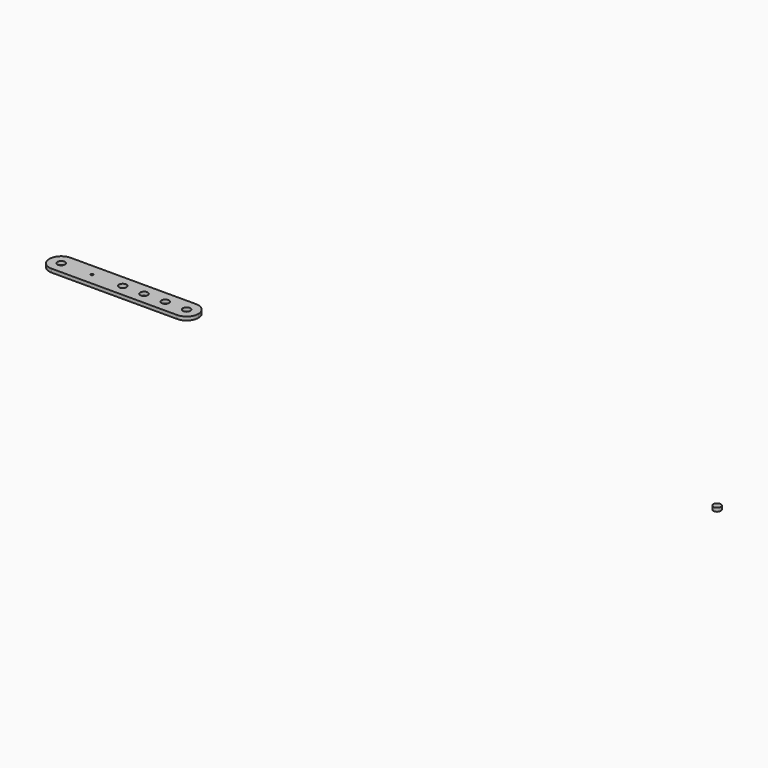
from build123d import *

# Parameters (mm, degrees)
F0_R     = 3.175
F0_R_2   = 1
F1_DEPTH = 3


with BuildPart() as f1:
    # F0 (on Top) → F1 (new body)
    with BuildSketch(Plane.XY):
        with Locations((528.647679, 0)):
            Circle(F0_R)
        with BuildLine():
            ThreePointArc((80.016351, -10), (87.087419, -7.071068), (90.016351, 0))
            ThreePointArc((90.016351, 0), (87.087419, 7.071068), (80.016351, 10))
            ThreePointArc((80.016351, 10), (70.016351, 0), (80.016351, -10))
        make_face()
        with Locations((80.016351, 0)):
            Circle(F0_R, mode=Mode.SUBTRACT)
        with BuildLine():
            ThreePointArc((80.016351, -10), (70.016351, 0), (80.016351, 10))
            Line((80.016351, 10), (-26.016351, 10))
            ThreePointArc((-26.016351, 10), (-18.945283, 7.071068), (-16.016351, 0))
            ThreePointArc((-16.016351, 0), (-18.945283, -7.071068), (-26.016351, -10))
            Line((-26.016351, -10), (80.016351, -10))
        make_face()
        Circle(F0_R_2, mode=Mode.SUBTRACT)
        with Locations((26.016351, 0)):
            Circle(F0_R, mode=Mode.SUBTRACT)
        with Locations((44.016351, 0)):
            Circle(F0_R, mode=Mode.SUBTRACT)
        with Locations((62.016351, 0)):
            Circle(F0_R, mode=Mode.SUBTRACT)
        with BuildLine():
            ThreePointArc((-16.016351, 0), (-18.945283, 7.071068), (-26.016351, 10))
            ThreePointArc((-26.016351, 10), (-36.016351, 0), (-26.016351, -10))
            ThreePointArc((-26.016351, -10), (-18.945283, -7.071068), (-16.016351, 0))
        make_face()
        with Locations((-26.016351, 0)):
            Circle(F0_R, mode=Mode.SUBTRACT)
    extrude(amount=F1_DEPTH)


solid = f1.part
